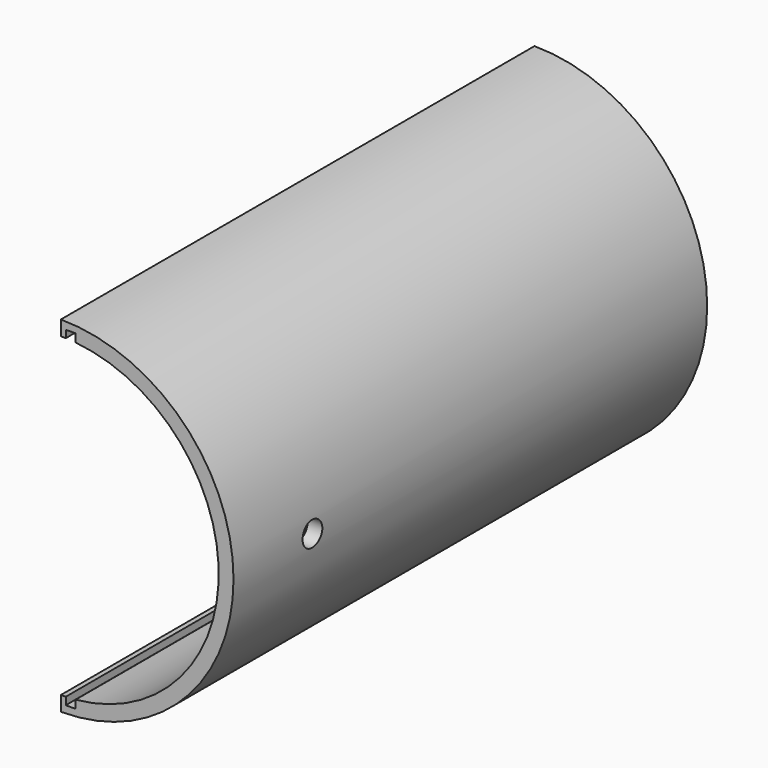
from build123d import *

# Parameters (mm, degrees)
F1_DEPTH = 120
F3_DEPTH = 117
F5_DEPTH = 118.5
F8_R     = 2.5
F9_DEPTH = 25


with BuildPart() as f1:
    # F0 (on Front) → F1 (new body)
    with BuildSketch(Plane.XZ):
        with BuildLine():
            ThreePointArc((0, -35), (35, 0), (0, 35))
            Line((0, 35), (0, -35))
        make_face()
    extrude(amount=F1_DEPTH)

    # F2 (on face) → F3 (cut)
    with BuildSketch(Plane.XZ.offset(120)):
        with BuildLine():
            ThreePointArc((0, -32), (32, 0), (0, 32))
            Line((0, 32), (0, -32))
        make_face()
    extrude(amount=-F3_DEPTH, mode=Mode.SUBTRACT)

    # F4 (on face) → F5 (cut)
    with BuildSketch(Plane.XZ.offset(120)):
        with BuildLine():
            ThreePointArc((3, 31.8590646441), (2.0009811174, 31.9373773903), (1, 31.9843711834))
            Line((1, 31.9843711834), (1, -31.9843711834))
            ThreePointArc((1, -31.9843711834), (2.0009811174, -31.9373773903), (3, -31.8590646441))
            Line((3, -31.8590646441), (3, 31.8590646441))
        make_face()
        with BuildLine():
            Line((3, 33.5), (1, 33.5))
            Line((1, 33.5), (1, 31.9843711834))
            ThreePointArc((1, 31.9843711834), (2.0009811174, 31.9373773903), (3, 31.8590646441))
            Line((3, 31.8590646441), (3, 33.5))
        make_face()
        with BuildLine():
            ThreePointArc((3, -31.8590646441), (2.0009811174, -31.9373773903), (1, -31.9843711834))
            Line((1, -31.9843711834), (1, -33.5))
            Line((1, -33.5), (3, -33.5))
            Line((3, -33.5), (3, -31.8590646441))
        make_face()
    extrude(amount=-F5_DEPTH, mode=Mode.SUBTRACT)

    # F8 (on line) → F9 (cut)
    with BuildSketch(Plane.YZ.offset(35)):
        with Locations((-100, 0)):
            Circle(F8_R)
    extrude(amount=-F9_DEPTH, mode=Mode.SUBTRACT)


solid = f1.part
